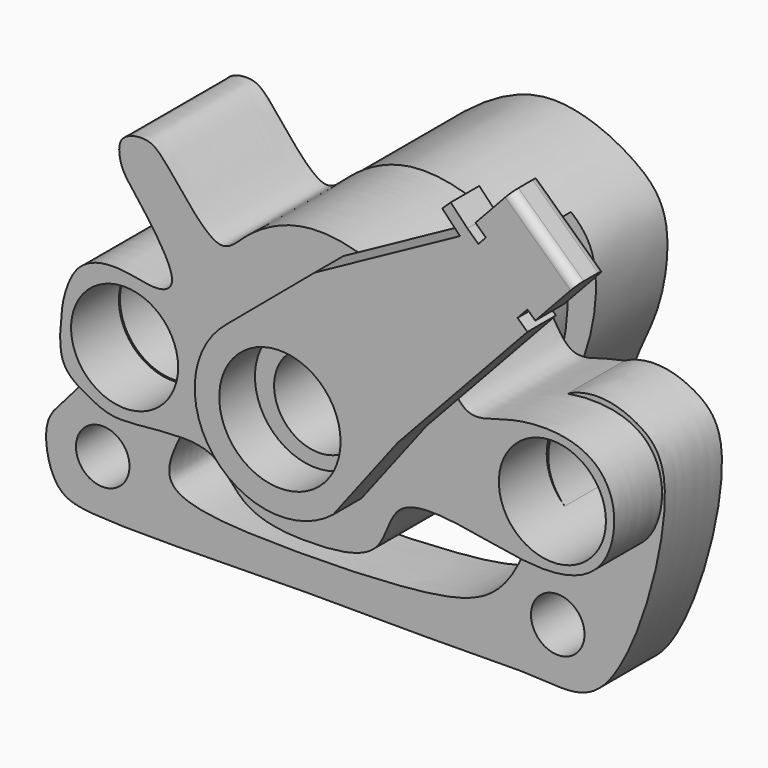
from build123d import *

# Parameters (mm, degrees)
F0_R      = 3
F0_R_2    = 6
F1_DEPTH  = 8
F2_R      = 6
F2_R_2    = 5
F3_DEPTH  = 14.7
F6_DEPTH  = 4
F7_R      = 6.7989138306
F8_DEPTH  = 5
F9_R      = 10
F10_DEPTH = 18
F13_DEPTH = 4
F14_R     = 1


with BuildPart() as f1:
    # F0 (on Front) → F1 (new body)
    with BuildSketch(Plane.XZ):
        with BuildLine():
            add(Edge.make_bspline(
                [(5.2022146992, 0), (9.8913850745, -0.3854387864), (27.8480780209, 0.2104459938), (46.2254931113, -0.141669075), (55.380840781, 0.2640040677), (64.4080418968, -1.1560329446), (71.3307390489, 24.0793859021), (66.7511668583, 28.8636970797), (61.168472188, 30.7113453369), (54.7769760764, 27.7527720728), (54.3751038216, 19.3156986543), (54.6038715633, 15.2546109289), (53.3174381943, 10.9701850302), (49.8566636339, 5.4418208765), (40.1959993354, 3.8568997789), (26.4200660594, 3.5045624566), (12.3672901919, 4.1687967631), (14.5621596683, 10.4649261381), (17.9145838929, 16.0619566032), (22.3641021481, 19.7165035072), (21.2506174665, 26.4747126342), (15.2137524405, 30.0523536675), (8.9712146155, 28.4476240369), (6.8314088133, 23.0819039311), (5.860872455, 18.7102233312), (5.8454151232, 14.6002114986), (2.1190941588, 10.1813480872), (-0.7304438008, 7.4212410524), (0.6066769575, 0.8300871564), (3.1008042001, 0.1727310052), (5.2022146992, 0)],
                knots=[0, 0, 0, 0, 0.062040227, 0.1202934077, 0.1593410761, 0.194215262, 0.2574775626, 0.2890973952, 0.3194665645, 0.3517898495, 0.3885964814, 0.4155299218, 0.4427002257, 0.4747408371, 0.5144429627, 0.5662007201, 0.6107438765, 0.6382701802, 0.6728304482, 0.7033215559, 0.7349379759, 0.7683236411, 0.7996439692, 0.8302450111, 0.8581826472, 0.8844383938, 0.9154177056, 0.9413954514, 0.9721972174, 1, 1, 1, 1], degree=3))
        make_face()
        with Locations((6.2507865727, 6)):
            Circle(F0_R, mode=Mode.SUBTRACT)
        with Locations((57.2507865727, 6)):
            Circle(F0_R, mode=Mode.SUBTRACT)
        with Locations((14.1821591217, 22.1583826384)):
            Circle(F0_R_2, mode=Mode.SUBTRACT)
        with Locations((62.1821591217, 22.2690369962)):
            Circle(F0_R_2, mode=Mode.SUBTRACT)
    extrude(amount=F1_DEPTH)

    # F2 (on Front) → F3 (join)
    with BuildSketch(Plane.XZ):
        with BuildLine():
            add(Edge.make_bspline(
                [(13.6314984411, 14.7772310302), (16.2462010124, 14.7151104216), (24.2354988726, 16.5749411272), (26.9725648883, 9.9202593934), (35.4326287987, 9.2467284465), (43.2385415639, 10.3520063963), (43.892911896, 17.5462864421), (52.8931205275, 16.7369586478), (61.6996197886, 14.6594704624), (68.1353907403, 17.0805114959), (69.5957843487, 23.9770799133), (66.8643382423, 28.484873456), (61.6621146582, 29.7281337299), (56.5503961966, 28.9655427856), (51.8009462013, 26.948229738), (49.0153104301, 34.3418585546), (43.7807880952, 39.3008638858), (34.2607547025, 41.625908206), (27.6274665599, 37.8515083008), (24.4634415854, 33.7835331064), (18.602441242, 42.2775539738), (16.511523812, 43.5972384588), (13.2033787485, 42.9039884746), (13.5504207048, 39.7091411279), (15.0184111161, 37.816800106), (20.7269483016, 30.3848911632), (17.7525530543, 28.5779263826), (13.6059198784, 30.005972813), (8.3098692752, 29.120969703), (7.0283451318, 23.9541364631), (7.0435188142, 23.0232796343), (6.3440324189, 17.8324240817), (10.2049719075, 15.7604237981), (12.0029871518, 14.8159215158), (13.6314984411, 14.7772310302)],
                knots=[0, 0, 0, 0, 0.0426452473, 0.0755902513, 0.1144018773, 0.1508760844, 0.1821464684, 0.2198911902, 0.2622851439, 0.2957633159, 0.329808951, 0.3596546707, 0.390258206, 0.4219780206, 0.4493485721, 0.4844110943, 0.5217751276, 0.5633949149, 0.6007164262, 0.6262049554, 0.6666312481, 0.6890965176, 0.7110152339, 0.7323505391, 0.7557553965, 0.7953206788, 0.8146225577, 0.8432414927, 0.8736306173, 0.9027273564, 0.9174462446, 0.9466023483, 0.9734393245, 1, 1, 1, 1], degree=3))
        make_face()
        with Locations((14.0656758962, 22.0191816302)):
            Circle(F2_R, mode=Mode.SUBTRACT)
        with Locations((35.0227504969, 23.046117276)):
            Circle(F2_R_2, mode=Mode.SUBTRACT)
        with Locations((62.0113215395, 22.4261012098)):
            Circle(F2_R, mode=Mode.SUBTRACT)
    extrude(amount=F3_DEPTH)

    # F5 (on offset) → F6 (join)
    with BuildSketch(Plane.XZ.offset(14.7)):
        Polygon((38.5800339282, 39.0145145357), (28.7184659392, 30.7155083865), (40.6230129302, 15.7843809575), (47.8868037462, 25.2676643431), (62.4143891037, 40.904995054), (61.3079923322, 41.9328733943), (62.4143891037, 43.1237865286), (63.2923116371, 42.3081681358), (67.9293108761, 47.299382355), (60.6030597984, 54.1057062634), (56.5881292304, 49.7840798177), (57.754638449, 48.7003550722), (56.91284296, 47.7942558047), (55.6961933421, 48.9245626008), (53.8167767227, 50.8919730783), (52.8669060961, 49.9845861032), (54.8529335137, 47.9055733342), align=None)
        with BuildLine():
            Line((40.6230129302, 15.7843809575), (28.7184659392, 30.7155083865))
            ThreePointArc((28.7184659392, 30.7155083865), (27.2051757202, 17.2976711765), (40.6230129302, 15.7843809575))
        make_face()
    extrude(amount=F6_DEPTH)

    # F7 (on face) → F8 (cut)
    with BuildSketch(Plane.XZ.offset(18.7)):
        with Locations((34.6707394347, 23.249944672)):
            Circle(F7_R)
    extrude(amount=-F8_DEPTH, mode=Mode.SUBTRACT)

    # F9 (on Front) → F10 (join)
    with BuildSketch(Plane.XZ):
        with BuildLine():
            add(Edge.make_bspline(
                [(25.9805098176, 35.8996912837), (28.5839563999, 37.9676858573), (35.04550874, 42.078871853), (45.2321905594, 37.7603201395), (49.4527235964, 33.0639480036), (48.2258928953, 23.9055744848), (45.6847560862, 19.1746628276), (43.9023897203, 14.0615696584), (40.8711267945, 8.8799707507), (28.5237501099, 8.9162705219), (24.0844871436, 15.6256178276), (20.896974263, 21.202929835), (20.1269966213, 30.4670299772), (23.734245047, 34.1154167808), (25.9805098176, 35.8996912837)],
                knots=[0, 0, 0, 0, 0.0975704757, 0.1938420864, 0.2674118676, 0.3560386564, 0.4276907301, 0.4970667145, 0.5676401603, 0.6672060385, 0.7503436774, 0.8277661096, 0.9158157791, 1, 1, 1, 1], degree=3))
        make_face()
        with Locations((34.790482372, 22.9527279735)):
            Circle(F9_R, mode=Mode.SUBTRACT)
    extrude(amount=-F10_DEPTH)

    # F12 (on offset) → F13 (cut)
    with BuildSketch(Plane(origin=(0, 8, 0), x_dir=(-1, 0, 0), z_dir=(0, 1, 0))):
        Polygon((-19.0960000544, 34.0592343623), (-50.9917140007, 36.997590214), (-48.5721826553, 7.856846787), (-21.5170068733, 7.779319725), align=None)
    extrude(amount=-F13_DEPTH, mode=Mode.SUBTRACT)

    # F14
    f14_edges = [f1.edges().sort_by_distance(p)[0] for p in [
        (64.266185, -18.7, 50.702544),
        (64.266185, -14.7, 50.702544),
    ]]
    fillet(f14_edges, radius=F14_R)


solid = f1.part
